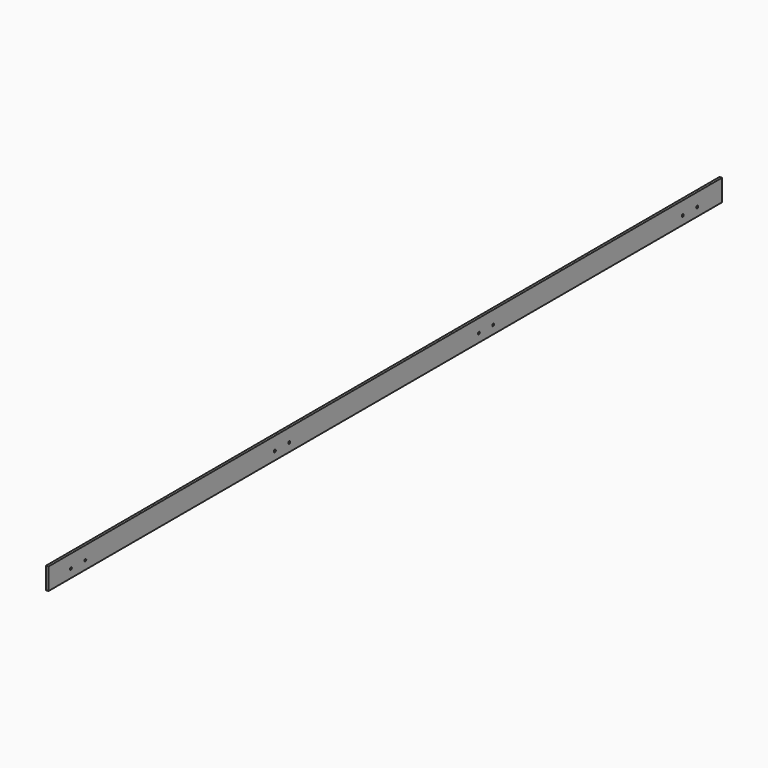
from build123d import *

# Parameters (mm, degrees)
CIRCLE012_R                                  = 5
EXTRUDE019_DEPTH                             = 100
ARRAY012_X_COUNT                             = 2
ARRAY012_X_PITCH                             = 75
ARRAY012_Y_COUNT                             = 4
ARRAY012_Y_PITCH                             = 1060
RECTANGLE002_AS_DRAWN_W                      = 10
RECTANGLE002_AS_DRAWN_H                      = 90
EXTRUDE003_DEPTH                             = 3500
EXTRUDE003_ONTO_RECTANGLE002_ROLL_ANGLE      = 90
EXTRUDE003_ONTO_RECTANGLE002_PLACEMENT_ANGLE = 180


with BuildPart() as array012:
    # Circle012 → Extrude019 (new body)
    with BuildSketch(Plane(origin=(2132, -488.5, 2295), x_dir=(0, 1, 0), z_dir=(1, 0, 0))):
        Circle(CIRCLE012_R)
    extrude(amount=-EXTRUDE019_DEPTH)

    # Array012 X: Array012 ×2


with BuildPart() as array012_1:
    add(array012.part)
    with Locations(*[(0, -i * ARRAY012_X_PITCH, 0) for i in range(1, ARRAY012_X_COUNT)]):
        add(array012.part)

    # Array012 Y: Array012 ×4


with BuildPart() as array012_2:
    add(array012_1.part)
    with Locations(*[(0, -i * ARRAY012_Y_PITCH, 0) for i in range(1, ARRAY012_Y_COUNT)]):
        add(array012_1.part)


with BuildPart() as cut:
    # Rectangle002 as drawn → Extrude003 (new)
    with BuildSketch(Plane.XY):
        with Locations((5, 45)):
            Rectangle(RECTANGLE002_AS_DRAWN_W, RECTANGLE002_AS_DRAWN_H)
    extrude(amount=-EXTRUDE003_DEPTH)


with BuildPart() as cut_1:
    # Extrude003 onto Rectangle002 roll: moved
    add(cut.part.rotate(Axis((0, 0, 0), (1, 0, 0)), EXTRUDE003_ONTO_RECTANGLE002_ROLL_ANGLE))


with BuildPart() as cut_2:
    # Extrude003 onto Rectangle002 placement: moved
    add(cut_1.part.moved(Location((2110, -360, 2260))).rotate(Axis((2110, -360, 2260), (0, 0, 1)), EXTRUDE003_ONTO_RECTANGLE002_PLACEMENT_ANGLE))

    # Cut: cut Array012
    add(array012_2.part, mode=Mode.SUBTRACT)


solid = cut_2.part
